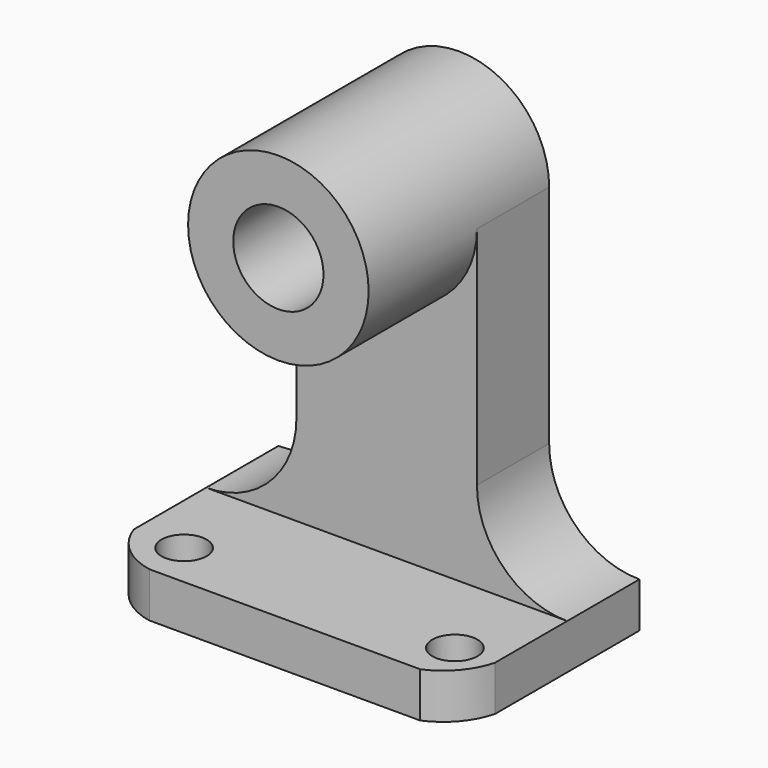
from build123d import *

# Parameters (mm, degrees)
F1_DEPTH  = 31.75
F2_W      = 19.05
F2_H      = 31.75
F3_DEPTH  = 57.15
F5_DEPTH  = 19.05
F7_DEPTH  = 25.4
F8_R      = 6.35
F9_DEPTH  = 31.75
F11_DEPTH = 6.35
F12_R     = 3.175
F13_DEPTH = 6.35
F14_DEPTH = 6.35


with BuildPart() as f1:
    # F0 (on Front) → F1 (new body)
    with BuildSketch(Plane.XZ):
        Polygon((0, 6.35), (0, 0), (50.8, 0), (50.8, 6.35), (50.8, 63.5), (0, 63.5), align=None)
    extrude(amount=F1_DEPTH)

    # F2 (on face) → F3 (cut)
    with BuildSketch(Plane.YZ.offset(50.8)):
        with Locations((-22.225, 22.225)):
            Rectangle(F2_W, F2_H)
    extrude(amount=-F3_DEPTH, mode=Mode.SUBTRACT)

    # F4 (on face) → F5 (cut)
    with BuildSketch(Plane.XZ.offset(31.75)):
        with BuildLine():
            ThreePointArc((25.4, 63.5), (34.3802561211, 59.7802561211), (38.1, 50.8))
            ThreePointArc((38.1, 50.8), (34.3802561211, 41.8197438789), (25.4, 38.1))
            Line((25.4, 38.1), (50.8, 38.1))
            Line((50.8, 38.1), (50.8, 63.5))
            Line((50.8, 63.5), (25.4, 63.5))
        make_face()
        with BuildLine():
            ThreePointArc((25.4, 38.1), (12.7, 50.8), (25.4, 63.5))
            Line((25.4, 63.5), (0, 63.5))
            Line((0, 63.5), (0, 38.1))
            Line((0, 38.1), (25.4, 38.1))
        make_face()
    extrude(amount=-F5_DEPTH, mode=Mode.SUBTRACT)

    # F6 (on face) → F7 (cut)
    with BuildSketch(Plane.XZ.offset(12.7)):
        with BuildLine():
            Line((0, 63.5), (0, 6.35))
            ThreePointArc((0, 6.35), (8.9802561211, 10.0697438789), (12.7, 19.05))
            Line((12.7, 19.05), (12.7, 50.8))
            ThreePointArc((12.7, 50.8), (16.4197438789, 59.7802561211), (25.4, 63.5))
            Line((25.4, 63.5), (0, 63.5))
        make_face()
        with BuildLine():
            ThreePointArc((38.1, 19.05), (41.8197438789, 10.0697438789), (50.8, 6.35))
            Line((50.8, 6.35), (50.8, 63.5))
            Line((50.8, 63.5), (25.4, 63.5))
            ThreePointArc((25.4, 63.5), (34.3802561211, 59.7802561211), (38.1, 50.8))
            Line((38.1, 50.8), (38.1, 19.05))
        make_face()
    extrude(amount=-F7_DEPTH, mode=Mode.SUBTRACT)

    # F8 (on face) → F9 (cut)
    with BuildSketch(Plane.XZ.offset(31.75)):
        with Locations((25.4, 50.8)):
            Circle(F8_R)
    extrude(amount=-F9_DEPTH, mode=Mode.SUBTRACT)

    # F10 (on face) → F11 (cut)
    with BuildSketch(Plane.XY.offset(6.35)):
        with BuildLine():
            Line((0, -25.4), (0, -31.75))
            Line((0, -31.75), (7.2559140616, -31.75))
            ThreePointArc((7.2559140616, -31.75), (2.7651010981, -29.5609540937), (0, -25.4))
        make_face()
        with BuildLine():
            ThreePointArc((50.8, -25.4), (48.8122601511, -29.2045447704), (45.3559140616, -31.75))
            Line((45.3559140616, -31.75), (50.8, -31.75))
            Line((50.8, -31.75), (50.8, -25.4))
        make_face()
    extrude(amount=-F11_DEPTH, mode=Mode.SUBTRACT)

    # F12 (on face) → F13 (cut)
    with BuildSketch(Plane.XY.offset(6.35)):
        with Locations((7.0587542899, -25.4)):
            Circle(F12_R)
        with Locations((45.1587542899, -25.4)):
            Circle(F12_R)
    extrude(amount=-F13_DEPTH, mode=Mode.SUBTRACT)

    # F12 (on face) → F14 (cut)
    with BuildSketch(Plane.XY.offset(6.35)):
        with Locations((7.0587542899, -25.4)):
            Circle(F12_R)
        with Locations((45.1587542899, -25.4)):
            Circle(F12_R)
    extrude(amount=-F14_DEPTH, mode=Mode.SUBTRACT)


solid = f1.part
